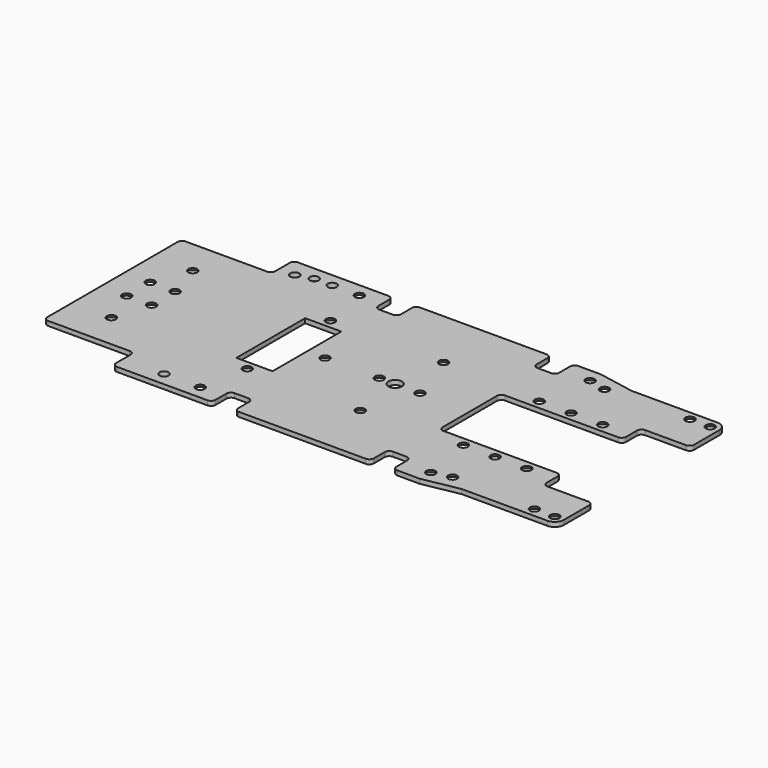
from build123d import *

# Parameters (mm, degrees)
SKETCH064_R      = 1.5
EXTRUDE002_DEPTH = 1
SKETCH068_R      = 1
EXTRUDE006_DEPTH = 1
SKETCH067_R      = 1
EXTRUDE005_DEPTH = 1
SKETCH066_R      = 1
EXTRUDE004_DEPTH = 1
SKETCH065_R      = 1
EXTRUDE003_DEPTH = 1
SKETCH049_W      = 8
SKETCH049_H      = 19
EXTRUDE001_DEPTH = 1
SKETCH008_R      = 2
SKETCH007_R      = 1
SKETCH012_R      = 2
SKETCH010_R      = 1
SKETCH009_R      = 2
SKETCH011_R      = 1
SKETCH014_R      = 2
SKETCH013_R      = 1
SKETCH016_R      = 2
SKETCH015_R      = 1
SKETCH006_R      = 2
SKETCH005_R      = 1
SKETCH018_R      = 2
SKETCH017_R      = 1
SKETCH022_R      = 2
SKETCH021_R      = 1
SKETCH024_R      = 2
SKETCH023_R      = 1
SKETCH026_R      = 2
SKETCH025_R      = 1
SKETCH028_R      = 2
SKETCH027_R      = 1
SKETCH032_R      = 2
SKETCH031_R      = 1
SKETCH030_R      = 2
SKETCH029_R      = 1
SKETCH034_R      = 2
SKETCH033_R      = 1
SKETCH036_R      = 2
SKETCH035_R      = 1
SKETCH038_R      = 2
SKETCH037_R      = 1
SKETCH040_R      = 2
SKETCH039_R      = 1
SKETCH042_R      = 2
SKETCH041_R      = 1
SKETCH044_R      = 2
SKETCH043_R      = 1
SKETCH046_R      = 2
SKETCH045_R      = 1
SKETCH048_R      = 2
SKETCH047_R      = 1
SKETCH051_R      = 2
SKETCH050_R      = 1
SKETCH053_R      = 2
SKETCH052_R      = 1
SKETCH055_R      = 2
SKETCH054_R      = 1
SKETCH057_R      = 2
SKETCH056_R      = 1
SKETCH059_R      = 2
SKETCH058_R      = 1
SKETCH061_R      = 2
SKETCH060_R      = 1
SKETCH063_R      = 2
SKETCH062_R      = 1
SKETCH020_R      = 2
SKETCH019_R      = 1
EXTRUDE_DEPTH    = 1


with BuildPart() as extrude002:
    # Sketch064 → Extrude002 (new body)
    with BuildSketch(Plane.XY):
        with Locations((10.5, 0)):
            Circle(SKETCH064_R)
    extrude(amount=EXTRUDE002_DEPTH)


with BuildPart() as extrude006:
    # Sketch068 → Extrude006 (new body)
    with BuildSketch(Plane(origin=(0.5, 1.5, 0), x_dir=(1, 0, 0), z_dir=(0, 0, 1))):
        with Locations((-23.5, 20.5)):
            Circle(SKETCH068_R)
    extrude(amount=EXTRUDE006_DEPTH)


with BuildPart() as extrude006_1:
    # Extrude006 placement: moved
    add(extrude006.part.moved(Location((-5.5, -43, 0))))


with BuildPart() as extrude005:
    # Sketch067 → Extrude005 (new body)
    with BuildSketch(Plane(origin=(0.5, 1.5, 0), x_dir=(1, 0, 0), z_dir=(0, 0, 1))):
        with Locations((-23.5, 20.5)):
            Circle(SKETCH067_R)
    extrude(amount=EXTRUDE005_DEPTH)


with BuildPart() as extrude005_1:
    # Extrude005 placement: moved
    add(extrude005.part.moved(Location((-2, -44, 0))))


with BuildPart() as extrude004:
    # Sketch066 → Extrude004 (new body)
    with BuildSketch(Plane(origin=(0.5, 1.5, 0), x_dir=(1, 0, 0), z_dir=(0, 0, 1))):
        with Locations((-23.5, 20.5)):
            Circle(SKETCH066_R)
    extrude(amount=EXTRUDE004_DEPTH)


with BuildPart() as extrude004_1:
    # Extrude004 placement: moved
    add(extrude004.part.moved(Location((2, -44, 0))))


with BuildPart() as extrude003:
    # Sketch065 → Extrude003 (new body)
    with BuildSketch(Plane(origin=(0.5, 1.5, 0), x_dir=(1, 0, 0), z_dir=(0, 0, 1))):
        with Locations((-23.5, 20.5)):
            Circle(SKETCH065_R)
    extrude(amount=EXTRUDE003_DEPTH)


with BuildPart() as fusion002:
    # Sketch049 → Extrude001 (new body)
    with BuildSketch(Plane(origin=(-17, -9.5, 0), x_dir=(1, 0, 0), z_dir=(0, 0, 1))):
        with Locations((4, 9.5)):
            Rectangle(SKETCH049_W, SKETCH049_H)
    extrude(amount=EXTRUDE001_DEPTH)

    # Fusion002: union Extrude002, Extrude006, Extrude005, Extrude004, Extrude003
    add(extrude002.part)
    add(extrude006_1.part)
    add(extrude005_1.part)
    add(extrude004_1.part)
    add(extrude003.part)


with BuildPart() as loft002:
    # Sketch008 → Loft002 section 0
    with BuildSketch(Plane.XY):
        with Locations((-43.5, 11)):
            Circle(SKETCH008_R)
    # Sketch007 → Loft002 section 1
    with BuildSketch(Plane.XY.offset(1)):
        with Locations((-43.5, 11)):
            Circle(SKETCH007_R)
    loft()


with BuildPart() as loft002_1:
    # Loft002 placement: moved
    add(loft002.part.moved(Location((2.75, -7.75, 0))))


with BuildPart() as loft004:
    # Sketch012 → Loft004 section 0
    with BuildSketch(Plane.XY):
        with Locations((-43.5, 11)):
            Circle(SKETCH012_R)
    # Sketch010 → Loft004 section 1
    with BuildSketch(Plane.XY.offset(1)):
        with Locations((-43.5, 11)):
            Circle(SKETCH010_R)
    loft()


with BuildPart() as loft004_1:
    # Loft004 placement: moved
    add(loft004.part.moved(Location((2.75, -14.25, 0))))


with BuildPart() as loft003:
    # Sketch009 → Loft003 section 0
    with BuildSketch(Plane.XY):
        with Locations((-43.5, 11)):
            Circle(SKETCH009_R)
    # Sketch011 → Loft003 section 1
    with BuildSketch(Plane.XY.offset(1)):
        with Locations((-43.5, 11)):
            Circle(SKETCH011_R)
    loft()


with BuildPart() as loft003_1:
    # Loft003 placement: moved
    add(loft003.part.moved(Location((-2.75, -14.25, 0))))


with BuildPart() as loft005:
    # Sketch014 → Loft005 section 0
    with BuildSketch(Plane.XY):
        with Locations((-43.5, 11)):
            Circle(SKETCH014_R)
    # Sketch013 → Loft005 section 1
    with BuildSketch(Plane.XY.offset(1)):
        with Locations((-43.5, 11)):
            Circle(SKETCH013_R)
    loft()


with BuildPart() as loft005_1:
    # Loft005 placement: moved
    add(loft005.part.moved(Location((0.25, -22.25, 0))))


with BuildPart() as loft006:
    # Sketch016 → Loft006 section 0
    with BuildSketch(Plane.XY):
        with Locations((-43.5, 11)):
            Circle(SKETCH016_R)
    # Sketch015 → Loft006 section 1
    with BuildSketch(Plane.XY.offset(1)):
        with Locations((-43.5, 11)):
            Circle(SKETCH015_R)
    loft()


with BuildPart() as loft006_1:
    # Loft006 placement: moved
    add(loft006.part.moved(Location((0.25, 0.25, 0))))


with BuildPart() as fusion001:
    # Sketch006 → Loft001 section 0
    with BuildSketch(Plane.XY):
        with Locations((-43.5, 11)):
            Circle(SKETCH006_R)
    # Sketch005 → Loft001 section 1
    with BuildSketch(Plane.XY.offset(1)):
        with Locations((-43.5, 11)):
            Circle(SKETCH005_R)
    loft()


with BuildPart() as fusion001_1:
    # Loft001 placement: moved
    add(fusion001.part.moved(Location((-2.75, -7.75, 0))))

    # Fusion001: union Loft002, Loft004, Loft003, Loft005, Loft006
    add(loft002_1.part)
    add(loft004_1.part)
    add(loft003_1.part)
    add(loft005_1.part)
    add(loft006_1.part)


with BuildPart() as loft_body:
    # Sketch018 → Loft section 0
    with BuildSketch(Plane.XY):
        with Locations((-43.5, 11)):
            Circle(SKETCH018_R)
    # Sketch017 → Loft section 1
    with BuildSketch(Plane.XY.offset(1)):
        with Locations((-43.5, 11)):
            Circle(SKETCH017_R)
    loft()


with BuildPart() as loft_body_1:
    # Loft placement: moved
    add(loft_body.part.moved(Location((28.5, 11, 0))))


with BuildPart() as loft008:
    # Sketch022 → Loft008 section 0
    with BuildSketch(Plane.XY):
        with Locations((-43.5, 11)):
            Circle(SKETCH022_R)
    # Sketch021 → Loft008 section 1
    with BuildSketch(Plane.XY.offset(1)):
        with Locations((-43.5, 11)):
            Circle(SKETCH021_R)
    loft()


with BuildPart() as loft008_1:
    # Loft008 placement: moved
    add(loft008.part.moved(Location((79.5, -33, 0))))


with BuildPart() as loft009:
    # Sketch024 → Loft009 section 0
    with BuildSketch(Plane.XY):
        with Locations((-43.5, 11)):
            Circle(SKETCH024_R)
    # Sketch023 → Loft009 section 1
    with BuildSketch(Plane.XY.offset(1)):
        with Locations((-43.5, 11)):
            Circle(SKETCH023_R)
    loft()


with BuildPart() as loft009_1:
    # Loft009 placement: moved
    add(loft009.part.moved(Location((79.5, 11, 0))))


with BuildPart() as loft010:
    # Sketch026 → Loft010 section 0
    with BuildSketch(Plane.XY):
        with Locations((-43.5, 11)):
            Circle(SKETCH026_R)
    # Sketch025 → Loft010 section 1
    with BuildSketch(Plane.XY.offset(1)):
        with Locations((-43.5, 11)):
            Circle(SKETCH025_R)
    loft()


with BuildPart() as loft010_1:
    # Loft010 placement: moved
    add(loft010.part.moved(Location((83.5, 10, 0))))


with BuildPart() as loft011:
    # Sketch028 → Loft011 section 0
    with BuildSketch(Plane.XY):
        with Locations((-43.5, 11)):
            Circle(SKETCH028_R)
    # Sketch027 → Loft011 section 1
    with BuildSketch(Plane.XY.offset(1)):
        with Locations((-43.5, 11)):
            Circle(SKETCH027_R)
    loft()


with BuildPart() as loft011_1:
    # Loft011 placement: moved
    add(loft011.part.moved(Location((83.5, -32, 0))))


with BuildPart() as loft013:
    # Sketch032 → Loft013 section 0
    with BuildSketch(Plane.XY):
        with Locations((-43.5, 11)):
            Circle(SKETCH032_R)
    # Sketch031 → Loft013 section 1
    with BuildSketch(Plane.XY.offset(1)):
        with Locations((-43.5, 11)):
            Circle(SKETCH031_R)
    loft()


with BuildPart() as loft013_1:
    # Loft013 placement: moved
    add(loft013.part.moved(Location((102, -32.5, 0))))


with BuildPart() as loft012:
    # Sketch030 → Loft012 section 0
    with BuildSketch(Plane.XY):
        with Locations((-43.5, 11)):
            Circle(SKETCH030_R)
    # Sketch029 → Loft012 section 1
    with BuildSketch(Plane.XY.offset(1)):
        with Locations((-43.5, 11)):
            Circle(SKETCH029_R)
    loft()


with BuildPart() as loft012_1:
    # Loft012 placement: moved
    add(loft012.part.moved(Location((106.5, -32.5, 0))))


with BuildPart() as loft014:
    # Sketch034 → Loft014 section 0
    with BuildSketch(Plane.XY):
        with Locations((-43.5, 11)):
            Circle(SKETCH034_R)
    # Sketch033 → Loft014 section 1
    with BuildSketch(Plane.XY.offset(1)):
        with Locations((-43.5, 11)):
            Circle(SKETCH033_R)
    loft()


with BuildPart() as loft014_1:
    # Loft014 placement: moved
    add(loft014.part.moved(Location((106.5, 10.5, 0))))


with BuildPart() as loft015:
    # Sketch036 → Loft015 section 0
    with BuildSketch(Plane.XY):
        with Locations((-43.5, 11)):
            Circle(SKETCH036_R)
    # Sketch035 → Loft015 section 1
    with BuildSketch(Plane.XY.offset(1)):
        with Locations((-43.5, 11)):
            Circle(SKETCH035_R)
    loft()


with BuildPart() as loft015_1:
    # Loft015 placement: moved
    add(loft015.part.moved(Location((102, 10.5, 0))))


with BuildPart() as loft016:
    # Sketch038 → Loft016 section 0
    with BuildSketch(Plane.XY):
        with Locations((-43.5, 11)):
            Circle(SKETCH038_R)
    # Sketch037 → Loft016 section 1
    with BuildSketch(Plane.XY.offset(1)):
        with Locations((-43.5, 11)):
            Circle(SKETCH037_R)
    loft()


with BuildPart() as loft016_1:
    # Loft016 placement: moved
    add(loft016.part.moved(Location((91.5, -0.5, 0))))


with BuildPart() as loft017:
    # Sketch040 → Loft017 section 0
    with BuildSketch(Plane.XY):
        with Locations((-43.5, 11)):
            Circle(SKETCH040_R)
    # Sketch039 → Loft017 section 1
    with BuildSketch(Plane.XY.offset(1)):
        with Locations((-43.5, 11)):
            Circle(SKETCH039_R)
    loft()


with BuildPart() as loft017_1:
    # Loft017 placement: moved
    add(loft017.part.moved(Location((84.5, -0.5, 0))))


with BuildPart() as loft018:
    # Sketch042 → Loft018 section 0
    with BuildSketch(Plane.XY):
        with Locations((-43.5, 11)):
            Circle(SKETCH042_R)
    # Sketch041 → Loft018 section 1
    with BuildSketch(Plane.XY.offset(1)):
        with Locations((-43.5, 11)):
            Circle(SKETCH041_R)
    loft()


with BuildPart() as loft018_1:
    # Loft018 placement: moved
    add(loft018.part.moved(Location((77.5, -0.5, 0))))


with BuildPart() as loft019:
    # Sketch044 → Loft019 section 0
    with BuildSketch(Plane.XY):
        with Locations((-43.5, 11)):
            Circle(SKETCH044_R)
    # Sketch043 → Loft019 section 1
    with BuildSketch(Plane.XY.offset(1)):
        with Locations((-43.5, 11)):
            Circle(SKETCH043_R)
    loft()


with BuildPart() as loft019_1:
    # Loft019 placement: moved
    add(loft019.part.moved(Location((91.5, -21.5, 0))))


with BuildPart() as loft020:
    # Sketch046 → Loft020 section 0
    with BuildSketch(Plane.XY):
        with Locations((-43.5, 11)):
            Circle(SKETCH046_R)
    # Sketch045 → Loft020 section 1
    with BuildSketch(Plane.XY.offset(1)):
        with Locations((-43.5, 11)):
            Circle(SKETCH045_R)
    loft()


with BuildPart() as loft020_1:
    # Loft020 placement: moved
    add(loft020.part.moved(Location((84.5, -21.5, 0))))


with BuildPart() as loft021:
    # Sketch048 → Loft021 section 0
    with BuildSketch(Plane.XY):
        with Locations((-43.5, 11)):
            Circle(SKETCH048_R)
    # Sketch047 → Loft021 section 1
    with BuildSketch(Plane.XY.offset(1)):
        with Locations((-43.5, 11)):
            Circle(SKETCH047_R)
    loft()


with BuildPart() as loft021_1:
    # Loft021 placement: moved
    add(loft021.part.moved(Location((77.5, -21.5, 0))))


with BuildPart() as loft022:
    # Sketch051 → Loft022 section 0
    with BuildSketch(Plane.XY):
        with Locations((-43.5, 11)):
            Circle(SKETCH051_R)
    # Sketch050 → Loft022 section 1
    with BuildSketch(Plane.XY.offset(1)):
        with Locations((-43.5, 11)):
            Circle(SKETCH050_R)
    loft()


with BuildPart() as loft022_1:
    # Loft022 placement: moved
    add(loft022.part.moved(Location((30.5, -22.5, 0))))


with BuildPart() as loft023:
    # Sketch053 → Loft023 section 0
    with BuildSketch(Plane.XY):
        with Locations((-43.5, 11)):
            Circle(SKETCH053_R)
    # Sketch052 → Loft023 section 1
    with BuildSketch(Plane.XY.offset(1)):
        with Locations((-43.5, 11)):
            Circle(SKETCH052_R)
    loft()


with BuildPart() as loft023_1:
    # Loft023 placement: moved
    add(loft023.part.moved(Location((30.5, 0.5, 0))))


with BuildPart() as loft024:
    # Sketch055 → Loft024 section 0
    with BuildSketch(Plane.XY):
        with Locations((-43.5, 11)):
            Circle(SKETCH055_R)
    # Sketch054 → Loft024 section 1
    with BuildSketch(Plane.XY.offset(1)):
        with Locations((-43.5, 11)):
            Circle(SKETCH054_R)
    loft()


with BuildPart() as loft024_1:
    # Loft024 placement: moved
    add(loft024.part.moved(Location((55.5, -22.5, 0))))


with BuildPart() as loft025:
    # Sketch057 → Loft025 section 0
    with BuildSketch(Plane.XY):
        with Locations((-43.5, 11)):
            Circle(SKETCH057_R)
    # Sketch056 → Loft025 section 1
    with BuildSketch(Plane.XY.offset(1)):
        with Locations((-43.5, 11)):
            Circle(SKETCH056_R)
    loft()


with BuildPart() as loft025_1:
    # Loft025 placement: moved
    add(loft025.part.moved(Location((55.5, 0.5, 0))))


with BuildPart() as loft026:
    # Sketch059 → Loft026 section 0
    with BuildSketch(Plane.XY):
        with Locations((-43.5, 11)):
            Circle(SKETCH059_R)
    # Sketch058 → Loft026 section 1
    with BuildSketch(Plane.XY.offset(1)):
        with Locations((-43.5, 11)):
            Circle(SKETCH058_R)
    loft()


with BuildPart() as loft026_1:
    # Loft026 placement: moved
    add(loft026.part.moved(Location((38.5, -11, 0))))


with BuildPart() as loft027:
    # Sketch061 → Loft027 section 0
    with BuildSketch(Plane.XY):
        with Locations((-43.5, 11)):
            Circle(SKETCH061_R)
    # Sketch060 → Loft027 section 1
    with BuildSketch(Plane.XY.offset(1)):
        with Locations((-43.5, 11)):
            Circle(SKETCH060_R)
    loft()


with BuildPart() as loft027_1:
    # Loft027 placement: moved
    add(loft027.part.moved(Location((50.5, -11, 0))))


with BuildPart() as loft028:
    # Sketch063 → Loft028 section 0
    with BuildSketch(Plane.XY):
        with Locations((-43.5, 11)):
            Circle(SKETCH063_R)
    # Sketch062 → Loft028 section 1
    with BuildSketch(Plane.XY.offset(1)):
        with Locations((-43.5, 11)):
            Circle(SKETCH062_R)
    loft()


with BuildPart() as loft028_1:
    # Loft028 placement: moved
    add(loft028.part.moved(Location((59.5, -11, 0))))


with BuildPart() as fusion:
    # Sketch020 → Loft007 section 0
    with BuildSketch(Plane.XY):
        with Locations((-43.5, 11)):
            Circle(SKETCH020_R)
    # Sketch019 → Loft007 section 1
    with BuildSketch(Plane.XY.offset(1)):
        with Locations((-43.5, 11)):
            Circle(SKETCH019_R)
    loft()


with BuildPart() as fusion_1:
    # Loft007 placement: moved
    add(fusion.part.moved(Location((28.5, -33, 0))))

    # Fusion: union Loft body, Loft008, Loft009, Loft010, Loft011, Loft013, Loft012, Loft014, Loft015, Loft016, Loft017, Loft018, Loft019, Loft020, Loft021, Loft022, Loft023, Loft024, Loft025, Loft026, Loft027, Loft028
    add(loft_body_1.part)
    add(loft008_1.part)
    add(loft009_1.part)
    add(loft010_1.part)
    add(loft011_1.part)
    add(loft013_1.part)
    add(loft012_1.part)
    add(loft014_1.part)
    add(loft015_1.part)
    add(loft016_1.part)
    add(loft017_1.part)
    add(loft018_1.part)
    add(loft019_1.part)
    add(loft020_1.part)
    add(loft021_1.part)
    add(loft022_1.part)
    add(loft023_1.part)
    add(loft024_1.part)
    add(loft025_1.part)
    add(loft026_1.part)
    add(loft027_1.part)
    add(loft028_1.part)


with BuildPart() as obj1_wrong:
    # Sketch → Extrude (new body)
    with BuildSketch(Plane.XY):
        with BuildLine():
            ThreePointArc((-52, -18), (-51.707107, -18.707107), (-51, -19))
            Line((-51, -19), (-33, -19))
            ThreePointArc((-32, -20), (-32.292893, -19.292893), (-33, -19))
            Line((-32, -24), (-32, -20))
            ThreePointArc((-32, -24), (-31.707107, -24.707107), (-31, -25))
            Line((-31, -25), (-11, -25))
            ThreePointArc((-11, -25), (-10.292893, -24.707107), (-10, -24))
            Line((-10, -24), (-10, -21))
            ThreePointArc((-9, -20), (-9.707107, -20.292893), (-10, -21))
            Line((-9, -20), (-6, -20))
            ThreePointArc((-5, -21), (-5.292893, -20.292893), (-6, -20))
            Line((-5, -21), (-5, -24))
            ThreePointArc((-5, -24), (-4.707107, -24.707107), (-4, -25))
            Line((-4, -25), (24, -25))
            ThreePointArc((24, -25), (24.707107, -24.707107), (25, -24))
            Line((25, -24), (25, -21))
            ThreePointArc((26, -20), (25.292893, -20.292893), (25, -21))
            Line((26, -20), (29, -20))
            ThreePointArc((30, -21), (29.707107, -20.292893), (29, -20))
            Line((30, -21), (30, -24))
            ThreePointArc((30, -24), (30.292893, -24.707107), (31, -25))
            Line((31, -25), (36, -25))
            Line((44, -23.5), (36, -25))
            Line((63, -23.5), (44, -23.5))
            ThreePointArc((63, -23.5), (64.414214, -22.914214), (65, -21.5))
            Line((65, -21.5), (65, -14.5))
            ThreePointArc((65, -14.5), (64.707107, -13.792893), (64, -13.5))
            Line((55, -13.5), (64, -13.5))
            ThreePointArc((54, -12.5), (54.292893, -13.207107), (55, -13.5))
            Line((54, -9.5), (54, -12.5))
            ThreePointArc((54, -9.5), (53.707107, -8.792893), (53, -8.5))
            Line((28, -8.5), (53, -8.5))
            ThreePointArc((27, -7.5), (27.292893, -8.207107), (28, -8.5))
            Line((27, 7.5), (27, -7.5))
            ThreePointArc((28, 8.5), (27.292893, 8.207107), (27, 7.5))
            Line((53, 8.5), (28, 8.5))
            ThreePointArc((53, 8.5), (53.707107, 8.792893), (54, 9.5))
            Line((54, 12.5), (54, 9.5))
            ThreePointArc((55, 13.5), (54.292893, 13.207107), (54, 12.5))
            Line((64, 13.5), (55, 13.5))
            ThreePointArc((64, 13.5), (64.707107, 13.792893), (65, 14.5))
            Line((65, 21.5), (65, 14.5))
            ThreePointArc((65, 21.5), (64.414214, 22.914214), (63, 23.5))
            Line((63, 23.5), (44, 23.5))
            Line((36, 25), (44, 23.5))
            Line((31, 25), (36, 25))
            ThreePointArc((31, 25), (30.292893, 24.707107), (30, 24))
            Line((30, 21), (30, 24))
            ThreePointArc((29, 20), (29.707107, 20.292893), (30, 21))
            Line((26, 20), (29, 20))
            ThreePointArc((25, 21), (25.292893, 20.292893), (26, 20))
            Line((25, 24), (25, 21))
            ThreePointArc((25, 24), (24.707107, 24.707107), (24, 25))
            Line((-4, 25), (24, 25))
            ThreePointArc((-4, 25), (-4.707107, 24.707107), (-5, 24))
            Line((-5, 21), (-5, 24))
            ThreePointArc((-6, 20), (-5.292893, 20.292893), (-5, 21))
            Line((-9, 20), (-6, 20))
            ThreePointArc((-10, 21), (-9.707107, 20.292893), (-9, 20))
            Line((-10, 24), (-10, 21))
            ThreePointArc((-10, 24), (-10.292893, 24.707107), (-11, 25))
            Line((-31, 25), (-11, 25))
            ThreePointArc((-31, 25), (-31.707107, 24.707107), (-32, 24))
            Line((-32, 20), (-32, 24))
            ThreePointArc((-33, 19), (-32.292893, 19.292894), (-32, 20))
            Line((-51, 19), (-33, 19))
            ThreePointArc((-51, 19), (-51.707107, 18.707107), (-52, 18))
            Line((-52, -18), (-52, 18))
        make_face()
    extrude(amount=EXTRUDE_DEPTH)

    # Cut: cut Fusion
    add(fusion_1.part, mode=Mode.SUBTRACT)

    # Cut001: cut Fusion001
    add(fusion001_1.part, mode=Mode.SUBTRACT)

    # Cut002: cut Fusion002
    add(fusion002.part, mode=Mode.SUBTRACT)


with BuildPart() as obj1:
    # Part__Mirroring: instance of obj1_wrong
    add(obj1_wrong.part.mirror(Plane(origin=(0, 0, 0), x_dir=(1, 0, 0), z_dir=(0, 1, 0))))


solid = obj1.part
